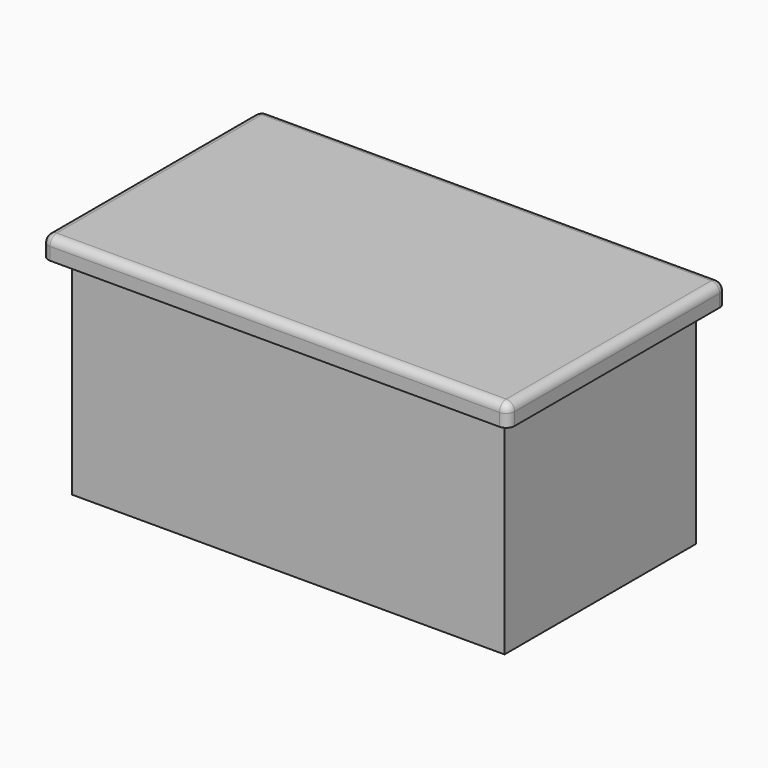
from build123d import *

# Parameters (mm, degrees)
F0_W     = 111
F0_H     = 65
F1_DEPTH = 5
F2_W     = 103
F2_H     = 57
F3_DEPTH = 50
F4_R     = 2


with BuildPart() as f1:
    # F0 (on Top) → F1 (new body)
    with BuildSketch(Plane.XY):
        Rectangle(F0_W, F0_H)
    extrude(amount=F1_DEPTH)

    # F2 (on Top) → F3 (join)
    with BuildSketch(Plane.XY):
        Rectangle(F2_W, F2_H)
    extrude(amount=-F3_DEPTH)

    # F4
    f4_edges = [f1.edges().sort_by_distance(p)[0] for p in [
        (0, -32.5, 5),
        (55.5, 0, 5),
        (0, 32.5, 5),
        (-55.5, 0, 5),
        (-55.5, 32.5, 2.5),
        (55.5, 32.5, 2.5),
        (55.5, -32.5, 2.5),
        (-55.5, -32.5, 2.5),
    ]]
    fillet(f4_edges, radius=F4_R)


solid = f1.part
